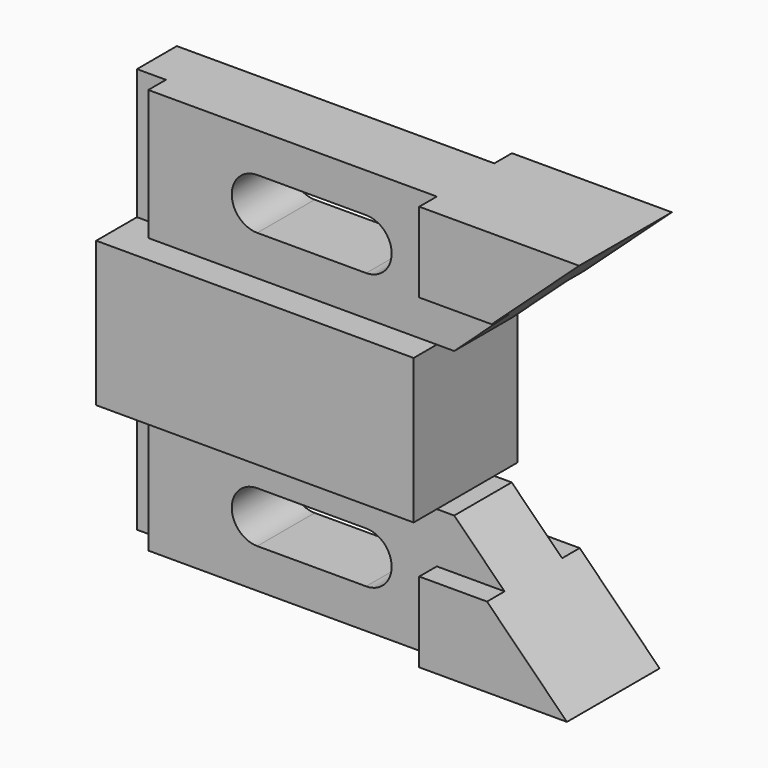
from build123d import *

# Parameters (mm, degrees)
F1_DEPTH = 14.224
F2_DEPTH = 7.874
F3_DEPTH = 12.7
F0_W     = 6.35
F0_H     = 28.575
F4_DEPTH = 7.874
F5_W     = 6.35
F5_H     = 28.575
F6_DEPTH = 4.826
F8_DEPTH = 22.099


with BuildPart() as f1:
    # F0 (on Front) → F1 (new body, symmetric)
    with BuildSketch(Plane.XZ):
        Polygon((6.35, -28.575), (0, -28.575), (0, -44.45), (0, -60.325), (6.35, -60.325), (69.596, -60.325), (69.596, -28.575), align=None)
    extrude(amount=F1_DEPTH, both=True)

    # F0 (on Front) → F2 (join, symmetric)
    with BuildSketch(Plane.XZ):
        Polygon((69.596, -60.325), (6.35, -60.325), (6.35, -88.9), (69.596, -88.9), (69.596, -71.374), (84.455, -71.374), (73.406, -60.325), align=None)
        Polygon((69.596, 0), (6.35, 0), (6.35, -28.575), (69.596, -28.575), (73.406, -28.575), (85.48624, -17.526), (69.596, -17.526), align=None)
    extrude(amount=F2_DEPTH, both=True)

    # F0 (on Front) → F3 (join, symmetric)
    with BuildSketch(Plane.XZ):
        Polygon((104.648, 0), (69.596, 0), (69.596, -17.526), (85.48624, -17.526), align=None)
        Polygon((69.596, -71.374), (69.596, -88.9), (101.981, -88.9), (84.455, -71.374), align=None)
    extrude(amount=F3_DEPTH, both=True)

    # F0 (on Front) → F4 (join, symmetric)
    with BuildSketch(Plane.XZ):
        with Locations((3.175, -14.2875)):
            Rectangle(F0_W, F0_H)
        Polygon((6.35, -28.575), (0, -28.575), (0, -44.45), (0, -60.325), (6.35, -60.325), (69.596, -60.325), (69.596, -28.575), align=None)
        with Locations((3.175, -74.6125)):
            Rectangle(F0_W, F0_H)
    extrude(amount=F4_DEPTH, both=True)

    # F5 (on face) → F6 (cut)
    with BuildSketch(Plane.XZ.offset(7.874)):
        with Locations((3.175, -14.2875)):
            Rectangle(F5_W, F5_H)
        with Locations((3.175, -74.6125)):
            Rectangle(F5_W, F5_H)
    extrude(amount=-F6_DEPTH, mode=Mode.SUBTRACT)

    # F7 (on face) → F8 (cut, through all)
    with BuildSketch(Plane.XZ.offset(7.874)):
        with BuildLine():
            Line((54.102, -8.636), (30.226, -8.636))
            ThreePointArc((30.226, -8.636), (24.638, -14.224), (30.226, -19.812))
            Line((30.226, -19.812), (54.102, -19.812))
            ThreePointArc((54.102, -19.812), (59.69, -14.224), (54.102, -8.636))
        make_face()
        with BuildLine():
            ThreePointArc((30.226, -69.088), (24.638, -74.676), (30.226, -80.264))
            Line((30.226, -80.264), (54.102, -80.264))
            ThreePointArc((54.102, -80.264), (59.69, -74.676), (54.102, -69.088))
            Line((54.102, -69.088), (30.226, -69.088))
        make_face()
    extrude(amount=-F8_DEPTH, mode=Mode.SUBTRACT)


solid = f1.part
